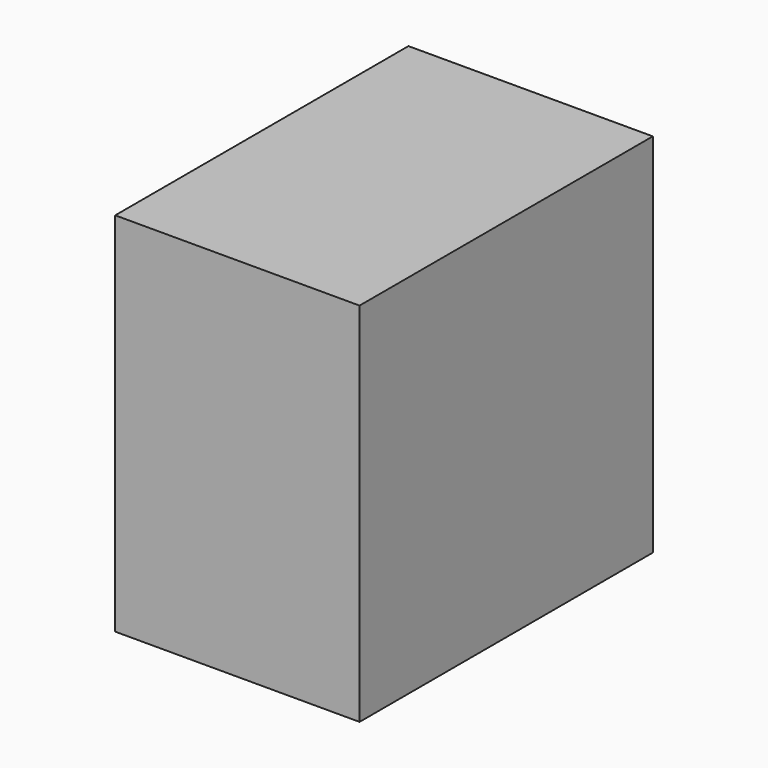
from build123d import *

# Parameters (mm, degrees)
F0_W     = 76.2
F0_H     = 76.2
F1_DEPTH = 50.8
F2_R     = 8.125968
F3_DEPTH = 48.26


with BuildPart() as f1:
    # F0 (on Right) → F1 (new body)
    with BuildSketch(Plane.YZ):
        Rectangle(F0_W, F0_H)
    extrude(amount=F1_DEPTH)

    # F2 (on face) → F3 (cut)
    with BuildSketch(Plane(origin=(0, 0, 0), x_dir=(0, -1, 0), z_dir=(-1, 0, 0))):
        Circle(F2_R)
    extrude(amount=-F3_DEPTH, mode=Mode.SUBTRACT)


solid = f1.part
